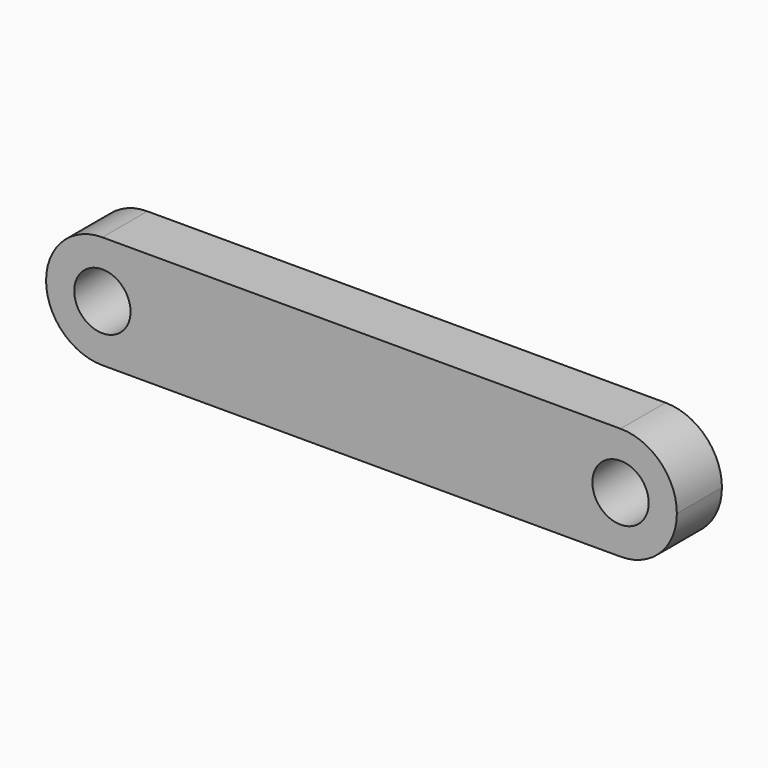
from build123d import *

# Parameters (mm, degrees)
F1_DEPTH = 3.175
F2_R     = 3.175
F3_DEPTH = 6.351


with BuildPart() as f1:
    # F0 (on Front) → F1 (new body, symmetric)
    with BuildSketch(Plane.XZ):
        with BuildLine():
            Line((0, 6.35), (-29.21, 6.35))
            ThreePointArc((-29.21, 6.35), (-33.700128, 4.490128), (-35.56, 0))
            ThreePointArc((-35.56, 0), (-33.700128, -4.490128), (-29.21, -6.35))
            Line((-29.21, -6.35), (0, -6.35))
            Line((0, -6.35), (29.21, -6.35))
            ThreePointArc((29.21, -6.35), (33.700128, -4.490128), (35.56, 0))
            ThreePointArc((35.56, 0), (33.700128, 4.490128), (29.21, 6.35))
            Line((29.21, 6.35), (0, 6.35))
        make_face()
    extrude(amount=F1_DEPTH, both=True)

    # F2 (on face) → F3 (cut, through all)
    with BuildSketch(Plane.XZ.offset(3.175)):
        with Locations((-29.21, 0)):
            Circle(F2_R)
        with Locations((29.21, 0)):
            Circle(F2_R)
    extrude(amount=-F3_DEPTH, mode=Mode.SUBTRACT)


solid = f1.part
